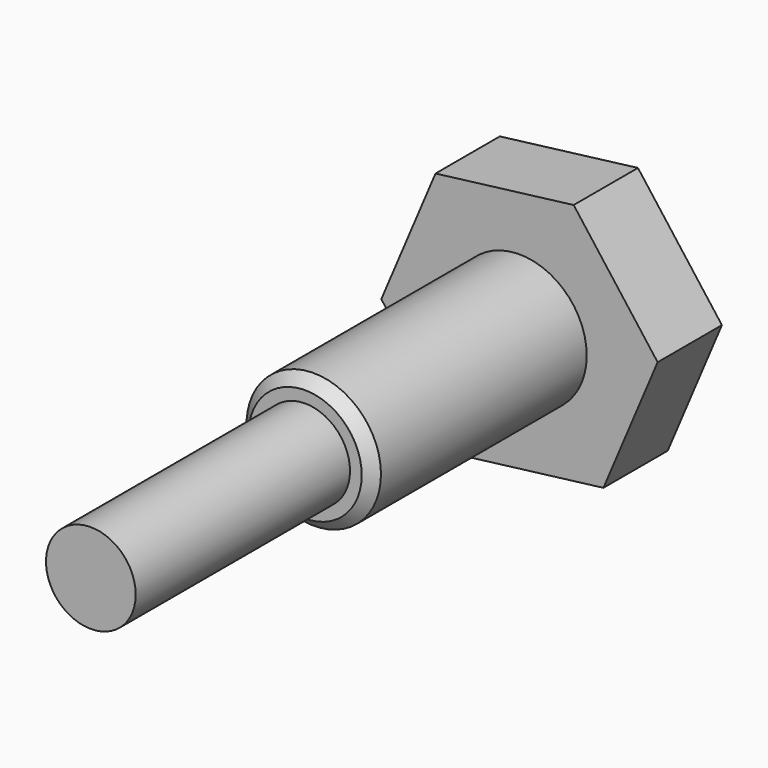
from build123d import *

# Parameters (mm, degrees)
F1_DEPTH = 38.1
F2_R     = 31.878636
F3_DEPTH = 127
F4_SIZE  = 5.08
F5_R     = 21.263534
F6_DEPTH = 127


with BuildPart() as f1:
    # F0 (on Front) → F1 (new body)
    with BuildSketch(Plane.XZ):
        Polygon((39.800733, -52.655495), (65.501363, 8.140698), (25.70063, 60.796193), (-39.800733, 52.655495), (-65.501363, -8.140698), (-25.70063, -60.796193), align=None)
    extrude(amount=F1_DEPTH)

    # F2 (on face) → F3 (join)
    with BuildSketch(Plane.XZ.offset(38.1)):
        Circle(F2_R)
    extrude(amount=F3_DEPTH)

    # F4
    f4_edges = [f1.edges().sort_by_distance(p)[0] for p in [
        (-31.878636, -165.1, 0),
    ]]
    chamfer(f4_edges, length=F4_SIZE)

    # F5 (on face) → F6 (join)
    with BuildSketch(Plane.XZ.offset(165.1)):
        Circle(F5_R)
    extrude(amount=F6_DEPTH)


solid = f1.part
